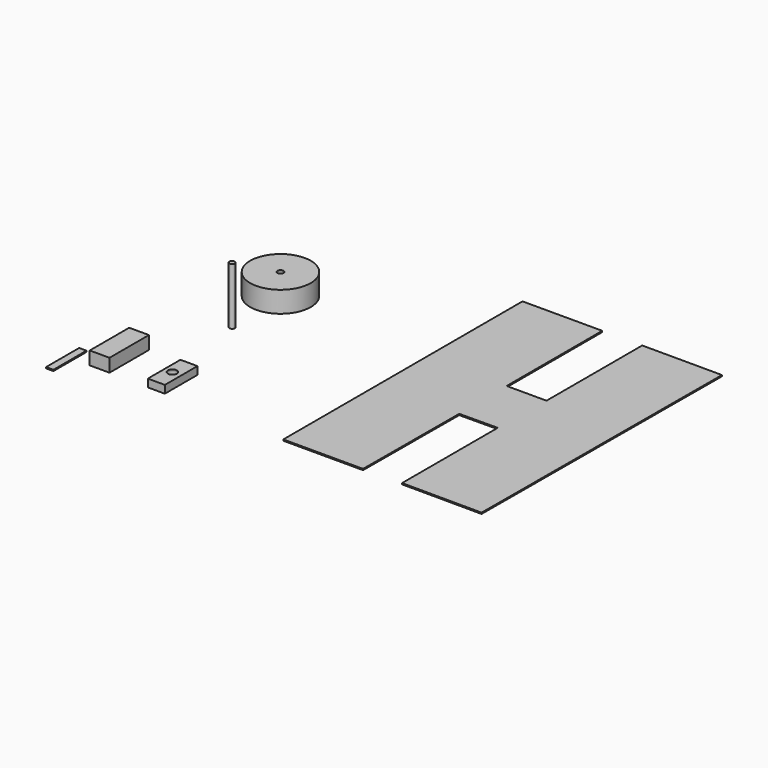
from build123d import *

# Parameters (mm, degrees)
F1_DEPTH = 0.762
F0_R     = 1.7327110464
F0_R_2   = 19.2966279722
F0_R_3   = 1.9689175866
F0_W     = 10.8607709408
F0_H     = 25.9647709318
F0_R_4   = 2.8678942403
F0_W_2   = 12.6024335623
F0_H_2   = 31.3831828535
F0_W_3   = 4.6816319227
F0_H_3   = 26.3463743031
F2_DEPTH = 35.56
F3_DEPTH = 12.7
F4_DEPTH = 4.18935
F5_DEPTH = 7.62


with BuildPart() as f1:
    # F0 (on Top) → F1 (new body)
    with BuildSketch(Plane.XY):
        Polygon((-19.1911552637, 151.5007214869), (-69.9911552637, 151.5007214869), (-69.9911552637, -38.9992785131), (-19.1911552637, -38.9992785131), (-18.8935862653, 37.2007214869), (5.5206213845, 37.3991008191), (5.5206213845, -38.8008991809), (56.3206213845, -38.9992785131), (57.0645438804, 151.5007214869), (6.2088447363, 151.583313942), (6.2088447363, 75.383313942), (-19.1911552637, 75.383313942), align=None)
    extrude(amount=F1_DEPTH)


with BuildPart() as f1b:
    # F0 (on Top) → F1, piece 2 (new body)
    with BuildSketch(Plane.XY):
        with Locations((-166.2974655628, 40.5683033168)):
            Circle(F0_R)
    extrude(amount=F1_DEPTH)

    # F2 (add): a face of the model
    f2_faces = [f1b.faces().sort_by_distance(p)[0] for p in [
        (-166.2974655628, 40.5683033168, 0.762),
    ]]
    extrude(f2_faces, amount=F2_DEPTH)


with BuildPart() as f1c:
    # F0 (on Top) → F1, piece 3 (new body)
    with BuildSketch(Plane.XY):
        with Locations((-183.8313043118, 101.03918612)):
            Circle(F0_R_2)
        with Locations((-183.8313043118, 101.03918612)):
            Circle(F0_R_3, mode=Mode.SUBTRACT)
    extrude(amount=F1_DEPTH)

    # F3 (add): a face of the model
    f3_faces = [f1c.faces().sort_by_distance(p)[0] for p in [
        (-202.5821412242, 101.03918612, 0),
    ]]
    extrude(f3_faces, amount=F3_DEPTH)


with BuildPart() as f1d:
    # F0 (on Top) → F1, piece 4 (new body)
    with BuildSketch(Plane.XY):
        with Locations((-158.1279635429, -16.9666388538)):
            Rectangle(F0_W, F0_H)
        with Locations((-158.3865433931, -16.7837888002)):
            Circle(F0_R_4, mode=Mode.SUBTRACT)
    extrude(amount=F1_DEPTH)

    # F4 (add): a face of the model
    f4_faces = [f1d.faces().sort_by_distance(p)[0] for p in [
        (-163.2769017403, -16.9666388538, 0),
    ]]
    extrude(f4_faces, amount=F4_DEPTH)


with BuildPart() as f1e:
    # F0 (on Top) → F1, piece 5 (new body)
    with BuildSketch(Plane.XY):
        with Locations((-198.7462118268, -8.6456667632)):
            Rectangle(F0_W_2, F0_H_2)
    extrude(amount=F1_DEPTH)

    # F5 (add): a face of the model
    f5_faces = [f1e.faces().sort_by_distance(p)[0] for p in [
        (-198.7462118268, -8.6456667632, 0),
    ]]
    extrude(f5_faces, amount=F5_DEPTH)


with BuildPart() as f1f:
    # F0 (on Top) → F1, piece 6 (new body)
    with BuildSketch(Plane.XY):
        with Locations((-208.5229828954, -38.6727843434)):
            Rectangle(F0_W_3, F0_H_3)
    extrude(amount=F1_DEPTH)


solid = Compound([f1.part, f1b.part, f1c.part, f1d.part, f1e.part, f1f.part])
